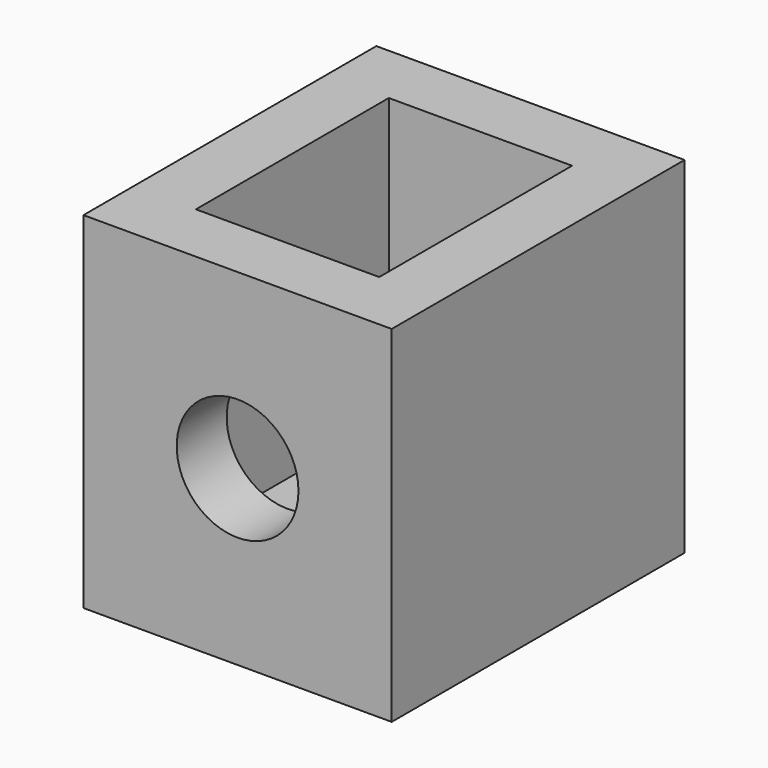
from build123d import *

# Parameters (mm, degrees)
F0_W     = 64.15522
F0_H     = 76.186978
F1_DEPTH = 72
F2_T     = -13
F3_R     = 12.673709
F4_DEPTH = 108.5


with BuildPart() as f1:
    # F0 (on Top) → F1 (new body)
    with BuildSketch(Plane.XY):
        Rectangle(F0_W, F0_H)
    extrude(amount=F1_DEPTH)

    # F2
    f2_openings = [f1.faces().sort_by_distance(p)[0] for p in [
        (0, 0, 72),
    ]]
    offset(amount=F2_T, openings=f2_openings)

    # F3 (on face) → F4 (cut)
    with BuildSketch(Plane.XZ.offset(38.093489)):
        with Locations((0, 36)):
            Circle(F3_R)
    extrude(amount=-F4_DEPTH, mode=Mode.SUBTRACT)


solid = f1.part
